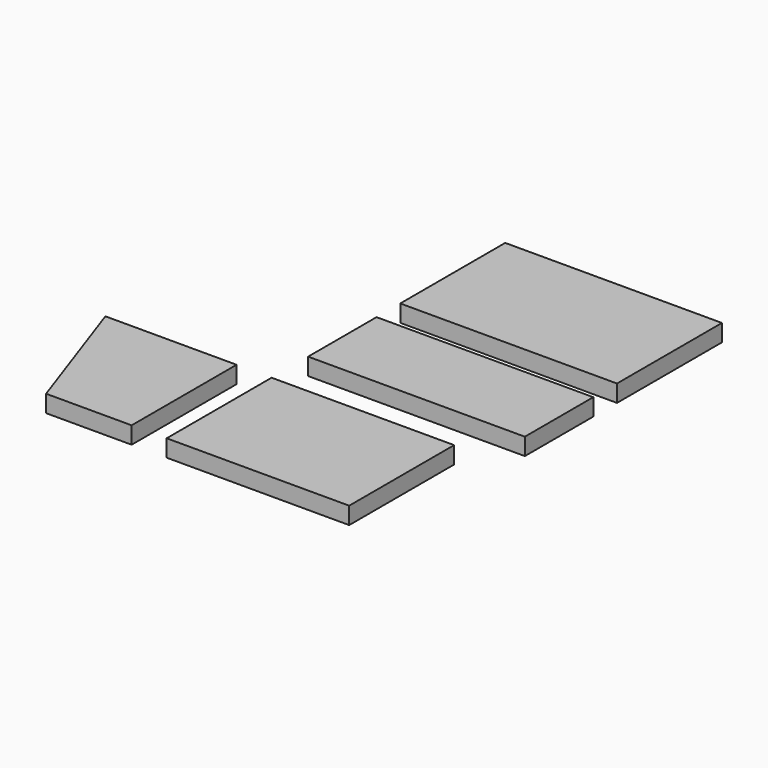
from build123d import *

# Parameters (mm, degrees)
F0_W     = 203.2
F0_H     = 19.05
F1_DEPTH = 146.05
F2_W     = 241.3
F2_H     = 95.25
F3_DEPTH = 19.05
F4_W     = 241.3
F4_H     = 146.05
F5_DEPTH = 19.05
F6_W     = 146.05
F6_H     = 146.05
F7_DEPTH = 19.05
F9_DEPTH = 19.051


with BuildPart() as f1:
    # F0 (on Front) → F1 (new body)
    with BuildSketch(Plane.XZ):
        with Locations((101.6, 9.525)):
            Rectangle(F0_W, F0_H)
    extrude(amount=F1_DEPTH)


with BuildPart() as f3:
    # F2 (on Top) → F3 (new body)
    with BuildSketch(Plane.XY):
        with Locations((120.65, 98.425)):
            Rectangle(F2_W, F2_H)
    extrude(amount=F3_DEPTH)


with BuildPart() as f5:
    # F4 (on Top) → F5 (new body)
    with BuildSketch(Plane.XY):
        with Locations((120.65, 252.063066)):
            Rectangle(F4_W, F4_H)
    extrude(amount=F5_DEPTH)


with BuildPart() as f7:
    # F6 (on Top) → F7 (new body)
    with BuildSketch(Plane.XY):
        with Locations((-112.048805, -73.025)):
            Rectangle(F6_W, F6_H)
    extrude(amount=F7_DEPTH)

    # F8 (on face) → F9 (cut, through all)
    with BuildSketch(Plane.XY.offset(19.05)):
        Polygon((-134.273805, -146.05), (-185.073805, 0), (-185.073805, -146.05), align=None)
    extrude(amount=-F9_DEPTH, mode=Mode.SUBTRACT)


solid = Compound([f1.part, f3.part, f5.part, f7.part])
